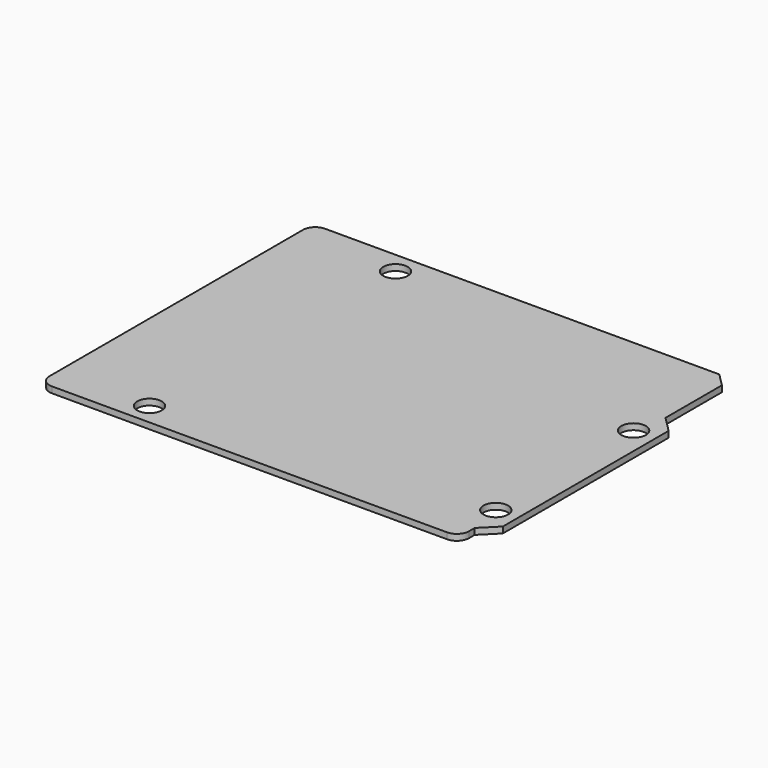
from build123d import *

# Parameters (mm, degrees)
SKETCH_R      = 2
EXTRUDE_DEPTH = 1


with BuildPart() as part:
    # Sketch → Extrude (new body)
    with BuildSketch(Plane.XY):
        with BuildLine():
            Line((1, 54.65), (65.264214, 54.65))
            Line((65.264214, 54.65), (67.4, 52.514214))
            Line((67.4, 52.514214), (67.4, 41.014214))
            Line((67.4, 41.014214), (69.95, 38.464214))
            Line((69.95, 38.464214), (69.95, 4.685786))
            Line((69.95, 4.685786), (67.4, 2.135786))
            Line((67.4, 2.135786), (67.4, 1))
            ThreePointArc((65.4, -1), (66.814214, -0.414214), (67.4, 1))
            Line((65.4, -1), (1, -1))
            ThreePointArc((-1, 1), (-0.414214, -0.414214), (1, -1))
            Line((-1, 1), (-1, 52.65))
            ThreePointArc((1, 54.65), (-0.414214, 54.064214), (-1, 52.65))
        make_face()
        with Locations((15.334135, 51.082933)):
            Circle(SKETCH_R, mode=Mode.SUBTRACT)
        with Locations((66.409951, 35.749834)):
            Circle(SKETCH_R, mode=Mode.SUBTRACT)
        with Locations((66.413926, 7.668398)):
            Circle(SKETCH_R, mode=Mode.SUBTRACT)
        with Locations((14.05247, 2.556984)):
            Circle(SKETCH_R, mode=Mode.SUBTRACT)
    extrude(amount=EXTRUDE_DEPTH)


solid = part.part
